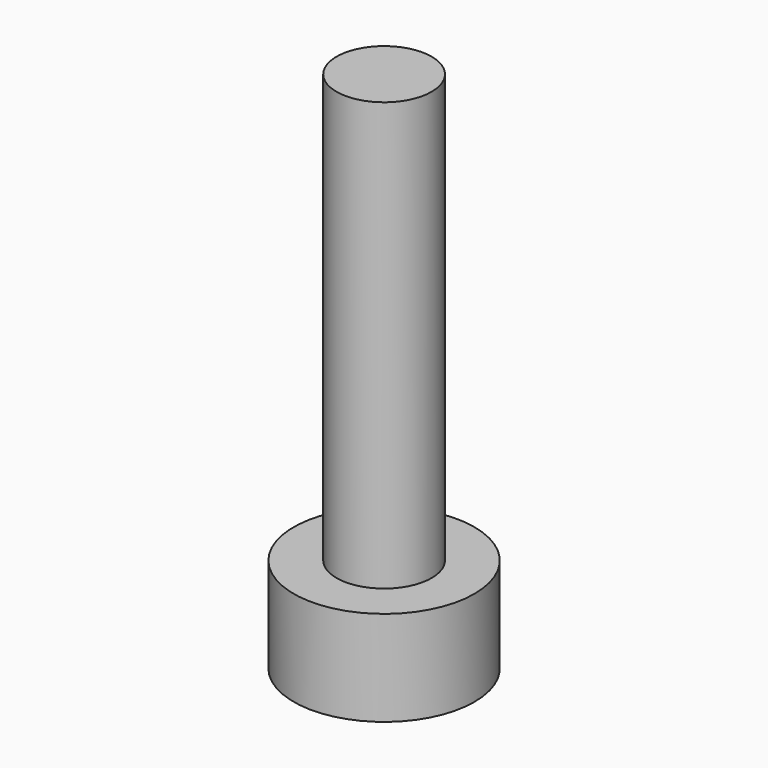
from build123d import *

# Parameters (mm, degrees)
F0_R     = 1.9
F1_DEPTH = 2
F2_DEPTH = 1
F3_R     = 1
F4_DEPTH = 9


with BuildPart() as f1:
    # F0 (on Top) → F1 (new body)
    with BuildSketch(Plane.XY):
        Circle(F0_R)
        Polygon((-0.9006664199, 0), (-0.45033321, 0.78), (0.45033321, 0.78), (0.9006664199, 0), (0.45033321, -0.78), (-0.45033321, -0.78), align=None, mode=Mode.SUBTRACT)
        Polygon((0.45033321, 0.78), (-0.45033321, 0.78), (-0.9006664199, 0), (-0.45033321, -0.78), (0.45033321, -0.78), (0.9006664199, 0), align=None)
    extrude(amount=F1_DEPTH)

    # F0 (on Top) → F2 (cut)
    with BuildSketch(Plane.XY):
        Polygon((0.45033321, 0.78), (-0.45033321, 0.78), (-0.9006664199, 0), (-0.45033321, -0.78), (0.45033321, -0.78), (0.9006664199, 0), align=None)
    extrude(amount=F2_DEPTH, mode=Mode.SUBTRACT)

    # F3 (on face) → F4 (join)
    with BuildSketch(Plane.XY.offset(2)):
        Circle(F3_R)
        Circle(F3_R)
    extrude(amount=F4_DEPTH)


solid = f1.part
